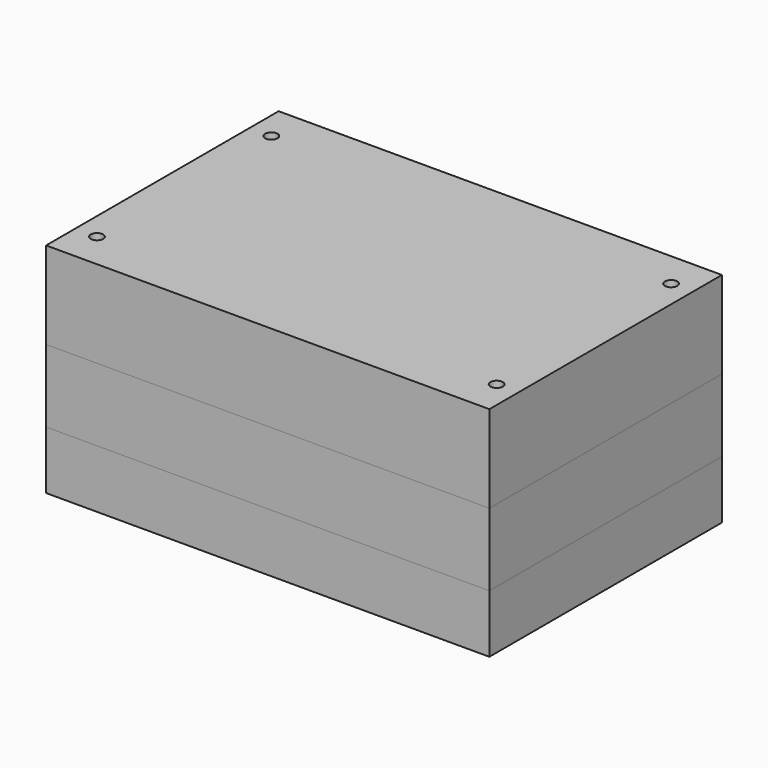
from build123d import *

# Parameters (mm, degrees)
F3_W      = 305
F3_H      = 200
F4_DEPTH  = 60
F6_D      = 8.5
F6_DEPTH  = 24.5
F6_TIP    = 2.5536576309
F7_DEPTH  = 50
F8_DEPTH  = 40
F9_R      = 22.5
F10_DEPTH = 10
F12_D     = 11
F12_2_D   = 11


with BuildPart() as f4:
    # F3 (on Top) → F4 (new body)
    with BuildSketch(Plane.XY):
        Rectangle(F3_W, F3_H)
    extrude(amount=F4_DEPTH)

    # F6
    with Locations(Plane.XY.offset(60)):
        with Locations((-137.5, 75), (137.5, 75), (-137.5, -75), (137.5, -75)):
            Hole(F6_D / 2, depth=F6_DEPTH)
            with Locations((0, 0, -(F6_DEPTH + F6_TIP / 2))):  # 118° drill point
                Cone(0, F6_D / 2, F6_TIP, mode=Mode.SUBTRACT)


with BuildPart() as f7:
    # F3 (on Top) → F7 (new body)
    with BuildSketch(Plane.XY):
        Rectangle(F3_W, F3_H)
    extrude(amount=-F7_DEPTH)


with BuildPart() as f8:
    # F8 (new): a face of the model
    f8_faces = [f7.part.faces().sort_by_distance(p)[0] for p in [
        (0, 0, -50),
    ]]
    extrude(f8_faces, amount=F8_DEPTH)

    # F9 (on face) → F10 (join)
    with BuildSketch(Plane(origin=(0, 0, -90), x_dir=(1, 0, 0), z_dir=(0, 0, -1))):
        Circle(F9_R)
    extrude(amount=F10_DEPTH)

    # F12#2 (through all)
    with Locations(Plane.XY):
        with Locations((-137.5, -75), (-137.5, 75), (137.5, 75), (137.5, -75)):
            Hole(F12_2_D / 2)


with BuildPart() as f7_1:
    add(f7.part)

    # F12 (through all)
    with Locations(Plane.XY):
        with Locations((-137.5, -75), (-137.5, 75), (137.5, 75), (137.5, -75)):
            Hole(F12_D / 2)


solid = Compound([f4.part, f8.part, f7_1.part])
